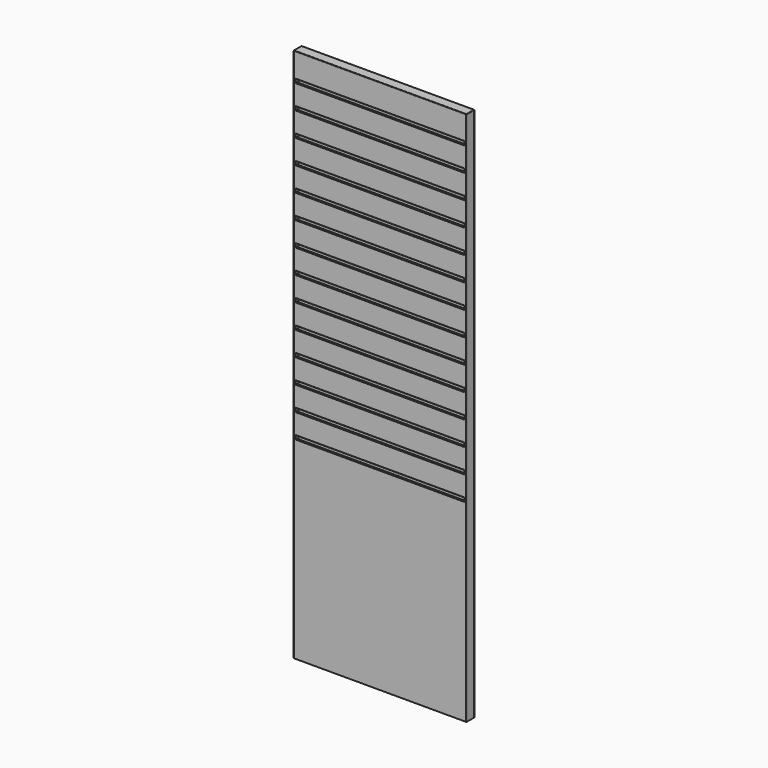
from build123d import *

# Parameters (mm, degrees)
F0_W      = 533.4
F0_H      = 1682.75
F1_DEPTH  = 31.75
F3_DEPTH  = 635
F21_W     = 31.75
F21_H     = 1682.75
F22_DEPTH = 6.35
F23_W     = 31.75
F23_H     = 1682.75
F24_DEPTH = 6.35
F25_W     = 546.1
F25_H     = 31.75
F26_DEPTH = 6.35
F27_R     = 1.5875


with BuildPart() as f1:
    # F0 (on Front) → F1 (new body)
    with BuildSketch(Plane.XZ):
        Rectangle(F0_W, F0_H)
    extrude(amount=-F1_DEPTH)


with BuildPart() as f3:
    # F2 (on face) → F3 (new body)
    with BuildSketch(Plane.YZ.offset(266.7)):
        Polygon((-6.35, -6.35), (-4.7625, -4.7625), (-3.175, -4.7625), (0, -6.5955926), (0, -14.9672802), (6.35, -16.66875), (6.35, 16.66875), (0, 14.9672548), (0, 6.5955672), (-3.175, 4.7625), (-4.7625, 4.7625), (-6.35, 6.35), align=None)
    extrude(amount=F3_DEPTH)


with BuildPart() as f6_1:
    # F6: copy of F3
    add(f3.part.moved(Location((-635, 6.35, -225.425))))


with BuildPart() as f7_1:
    # F7: copy of F3
    add(f3.part.moved(Location((-635, 6.35, -149.225))))


with BuildPart() as f8_1:
    # F8: copy of F3
    add(f3.part.moved(Location((-635, 6.35, -73.025))))


with BuildPart() as f9_1:
    # F9: copy of F3
    add(f3.part.moved(Location((-635, 6.35, 3.175))))


with BuildPart() as f10_1:
    # F10: copy of F3
    add(f3.part.moved(Location((-635, 6.35, 79.375))))


with BuildPart() as f11_1:
    # F11: copy of F3
    add(f3.part.moved(Location((-635, 6.35, 155.575))))


with BuildPart() as f12_1:
    # F12: copy of F3
    add(f3.part.moved(Location((-635, 6.35, 231.775))))


with BuildPart() as f13_1:
    # F13: copy of F3
    add(f3.part.moved(Location((-635, 6.35, 307.975))))


with BuildPart() as f14_1:
    # F14: copy of F3
    add(f3.part.moved(Location((-635, 6.35, 384.175))))


with BuildPart() as f15_1:
    # F15: copy of F3
    add(f3.part.moved(Location((-635, 6.35, 460.375))))


with BuildPart() as f16_1:
    # F16: copy of F3
    add(f3.part.moved(Location((-635, 6.35, 536.575))))


with BuildPart() as f17_1:
    # F17: copy of F3
    add(f3.part.moved(Location((-635, 6.35, 612.775))))


with BuildPart() as f18_1:
    # F18: copy of F3
    add(f3.part.moved(Location((-635, 6.35, 688.975))))


with BuildPart() as f3_1:
    # F19: moved
    add(f3.part.moved(Location((-635, 6.35, 765.175))))


with BuildPart() as f1_1:
    add(f1.part)

    # F20: cut F3, F18_1, F17_1, F16_1, F15_1, F14_1, F13_1, F12_1, F11_1, F10_1, F9_1, F8_1, F7_1, F6_1
    add(f3_1.part, mode=Mode.SUBTRACT)
    add(f18_1.part, mode=Mode.SUBTRACT)
    add(f17_1.part, mode=Mode.SUBTRACT)
    add(f16_1.part, mode=Mode.SUBTRACT)
    add(f15_1.part, mode=Mode.SUBTRACT)
    add(f14_1.part, mode=Mode.SUBTRACT)
    add(f13_1.part, mode=Mode.SUBTRACT)
    add(f12_1.part, mode=Mode.SUBTRACT)
    add(f11_1.part, mode=Mode.SUBTRACT)
    add(f10_1.part, mode=Mode.SUBTRACT)
    add(f9_1.part, mode=Mode.SUBTRACT)
    add(f8_1.part, mode=Mode.SUBTRACT)
    add(f7_1.part, mode=Mode.SUBTRACT)
    add(f6_1.part, mode=Mode.SUBTRACT)

    # F21 (on face) → F22 (join)
    with BuildSketch(Plane.YZ.offset(266.7)):
        with Locations((15.875, 0)):
            Rectangle(F21_W, F21_H)
    extrude(amount=F22_DEPTH)

    # F23 (on face) → F24 (join)
    with BuildSketch(Plane(origin=(-266.7, 0, 0), x_dir=(0, -1, 0), z_dir=(-1, 0, 0))):
        with Locations((-15.875, 0)):
            Rectangle(F23_W, F23_H)
    extrude(amount=F24_DEPTH)

    # F25 (on face) → F26 (join)
    with BuildSketch(Plane.XY.offset(841.375)):
        with Locations((0, 15.875)):
            Rectangle(F25_W, F25_H)
    extrude(amount=F26_DEPTH)

    # F27
    f27_edges = [f1_1.edges().sort_by_distance(p)[0] for p in [
        (0, 31.75, 847.725),
        (0, 0, 847.725),
        (-273.05, 31.75, 3.175),
        (-273.05, 0, 3.175),
        (273.05, 0, 3.175),
        (273.05, 31.75, 3.175),
        (273.05, 15.875, 847.725),
        (-273.05, 15.875, 847.725),
    ]]
    fillet(f27_edges, radius=F27_R)


solid = f1_1.part
